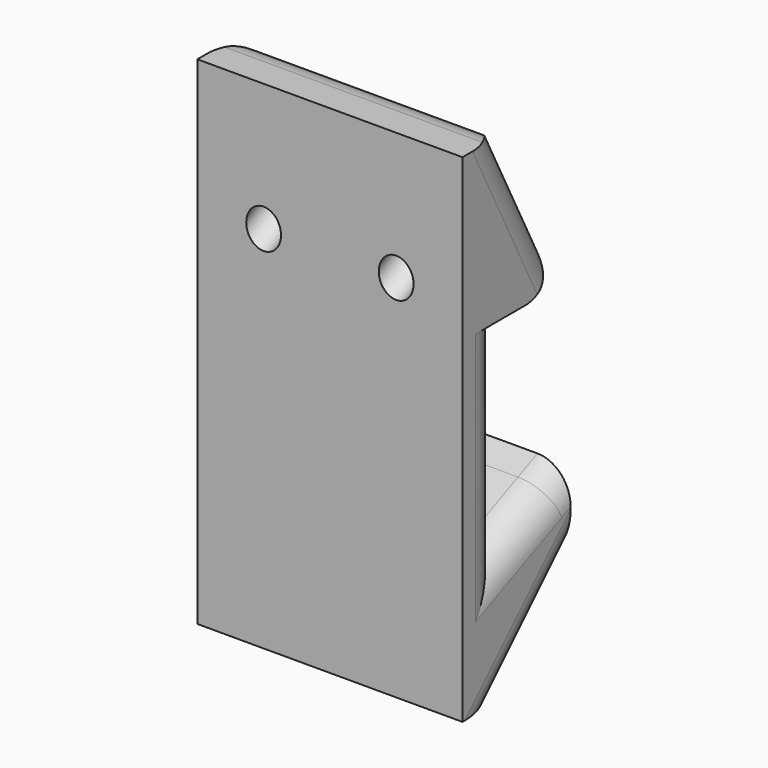
from build123d import *

# Parameters (mm, degrees)
F1_DEPTH = 16
F2_R     = 1.05
F3_DEPTH = 7.7105812745
F4_R     = 2


with BuildPart() as f1:
    # F0 (on Right) → F1 (new body)
    with BuildSketch(Plane.YZ):
        Polygon((-1.5, -15), (1.5, -15), (1.5, -7), (1.5, -3), (1.5, 5.2020410289), (1.5, 15), (-1.5, 15), align=None)
        Polygon((6.5, 5.2020410289), (1.5, 15), (1.5, 5.2020410289), align=None)
        Polygon((1.5, -7), (1.5, -15), (6.6618086312, -9.8381913688), (6.6618086312, -4.7058628306), (5.187990124, -5.3608932782), align=None)
    extrude(amount=F1_DEPTH)

    # F2 (on face) → F3 (cut, up to face)
    with BuildSketch(Plane(origin=(0, 7.2631977094, 3.7064850602), x_dir=(-1, 0, 0), z_dir=(0, 0.8907235428, 0.4545454545))):
        with Locations((-12, 7.1790349606)):
            Circle(F2_R)
        with Locations((-4, 7.1790349606)):
            Circle(F2_R)
    extrude(amount=-F3_DEPTH, mode=Mode.SUBTRACT)

    # F4
    f4_edges = [f1.edges().sort_by_distance(p)[0] for p in [
        (16, 1.5, -0.898979),
        (0, 1.5, -0.898979),
        (16, 4, 10.101021),
        (0, 4, 10.101021),
        (8, 6.5, 5.202041),
        (8, 6.661809, -9.838191),
        (16, 4.080904, -12.419096),
        (0, 4.080904, -12.419096),
        (16, 4.080904, -5.852931),
        (0, 4.080904, -5.852931),
        (8, 1.5, 15),
        (8, 1.5, -15),
    ]]
    fillet(f4_edges, radius=F4_R)


solid = f1.part
